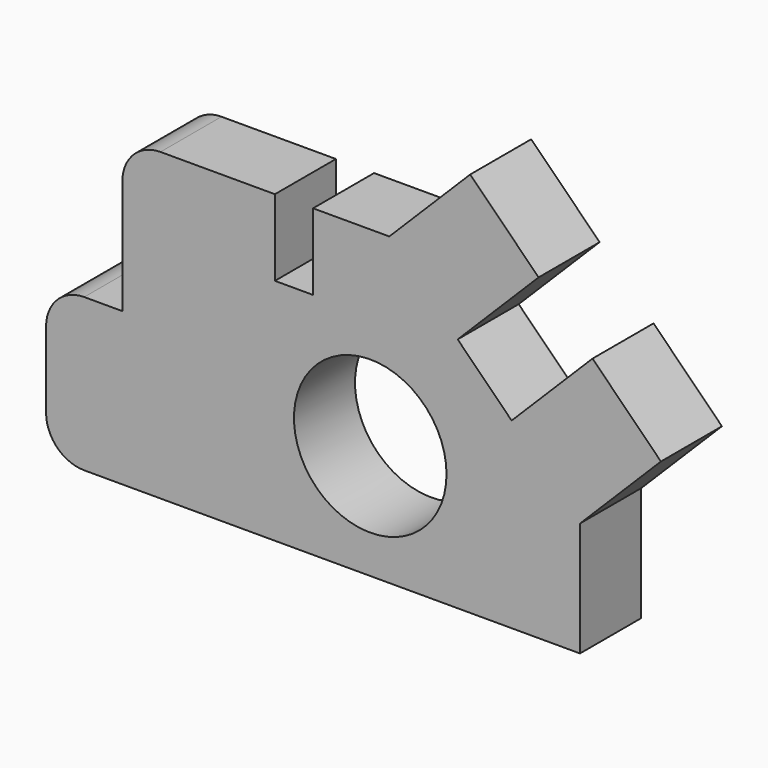
from build123d import *

# Parameters (mm, degrees)
F0_R     = 254
F1_DEPTH = 254


with BuildPart() as f1:
    # F0 (on Front) → F1 (new body)
    with BuildSketch(Plane.XZ):
        with BuildLine():
            ThreePointArc((0, 127), (37.197439, 37.197439), (127, 0))
            Line((127, 0), (1778, 0))
            Line((1778, 0), (1778, 381))
            Line((1778, 381), (2047.407684, 650.407684))
            Line((2047.407684, 650.407684), (1819.710245, 878.105122))
            Line((1819.710245, 878.105122), (1550.302561, 608.697439))
            Line((1550.302561, 608.697439), (1370.697439, 788.302561))
            Line((1370.697439, 788.302561), (1640.105122, 1057.710245))
            Line((1640.105122, 1057.710245), (1412.407684, 1285.407684))
            Line((1412.407684, 1285.407684), (1143, 1016))
            Line((1143, 1016), (889, 1016))
            Line((889, 1016), (889, 762))
            Line((889, 762), (762, 762))
            Line((762, 762), (762, 1016))
            Line((762, 1016), (381, 1016))
            ThreePointArc((381, 1016), (291.197439, 978.802561), (254, 889))
            Line((254, 889), (254, 508))
            Line((254, 508), (127, 508))
            ThreePointArc((127, 508), (37.197439, 470.802561), (0, 381))
            Line((0, 381), (0, 127))
        make_face()
        with Locations((1079.5, 381)):
            Circle(F0_R, mode=Mode.SUBTRACT)
    extrude(amount=F1_DEPTH)


solid = f1.part
